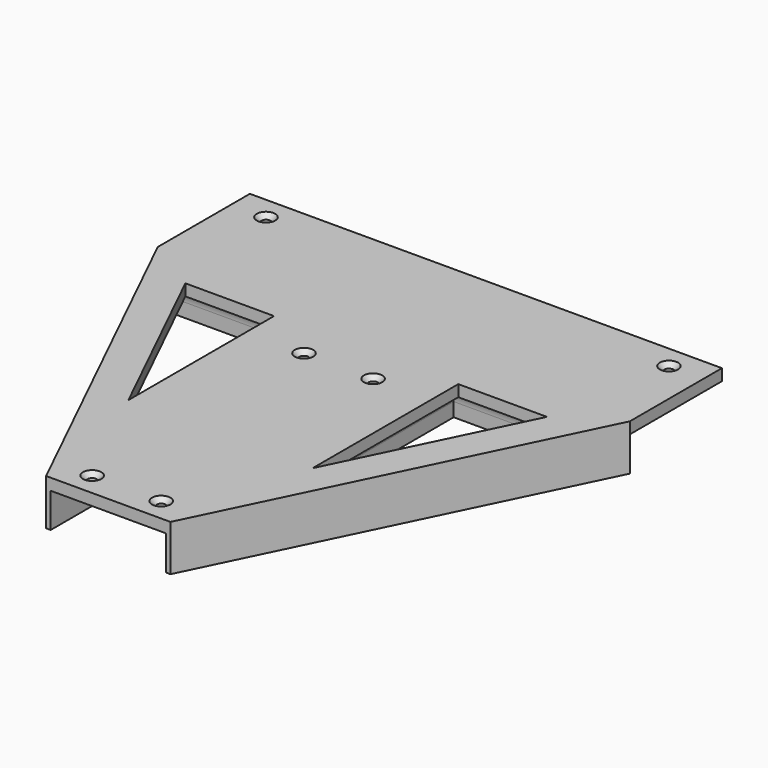
from build123d import *

# Parameters (mm, degrees)
SKETCH019_R     = 2
PAD_DEPTH       = 5
PAD001_DEPTH    = 15
FILLET003_R     = 9
CHAMFER004_SIZE = 2


with BuildPart() as part:
    # Sketch019 → Pad (new body)
    with BuildSketch(Plane.XY):
        Polygon((-102.5, 0), (102.5, 0), (102.5, -50), (27, -205), (-27, -205), (-102.5, -50), align=None)
        with Locations((-87.5, -10)):
            Circle(SKETCH019_R, mode=Mode.SUBTRACT)
        with Locations((87.5, -10)):
            Circle(SKETCH019_R, mode=Mode.SUBTRACT)
        with Locations((-15, -80)):
            Circle(SKETCH019_R, mode=Mode.SUBTRACT)
        with Locations((15, -80)):
            Circle(SKETCH019_R, mode=Mode.SUBTRACT)
        with Locations((-15, -195)):
            Circle(SKETCH019_R, mode=Mode.SUBTRACT)
        with Locations((15, -195)):
            Circle(SKETCH019_R, mode=Mode.SUBTRACT)
        Polygon((-78.508698, -65), (-40, -65), (-40, -144.057592), align=None, mode=Mode.SUBTRACT)
        Polygon((78.508698, -65), (40, -65), (40, -144.057592), align=None, mode=Mode.SUBTRACT)
    extrude(amount=PAD_DEPTH)

    # Sketch020 → Pad001 (join)
    with BuildSketch(Plane.XY):
        Polygon((-25, -50), (-25, -205), (-27, -205), (-102.5, -50), align=None)
        Polygon((-30, -187.423171), (-30, -55), (-94.502899, -55), align=None, mode=Mode.SUBTRACT)
        Polygon((25, -50), (25, -205), (27, -205), (102.5, -50), align=None)
        Polygon((94.502899, -55), (30, -55), (30, -187.423171), align=None, mode=Mode.SUBTRACT)
    extrude(amount=-PAD001_DEPTH)

    # Fillet003
    fillet003_edges = [part.edges().sort_by_distance(p)[0] for p in [
        (30, -121.211585, 0),
        (-62.25145, -55, 0),
        (-62.25145, -121.211585, 0),
        (62.25145, -55, 0),
        (62.25145, -121.211585, 0),
        (-30, -121.211585, 0),
    ]]
    fillet(fillet003_edges, radius=FILLET003_R)

    # Chamfer004
    chamfer004_edges = [part.edges().sort_by_distance(p)[0] for p in [
        (-89.5, -10, 5),
        (85.5, -10, 5),
        (-17, -80, 5),
        (13, -80, 5),
        (-17, -195, 5),
        (13, -195, 5),
    ]]
    chamfer(chamfer004_edges, length=CHAMFER004_SIZE)


solid = part.part
